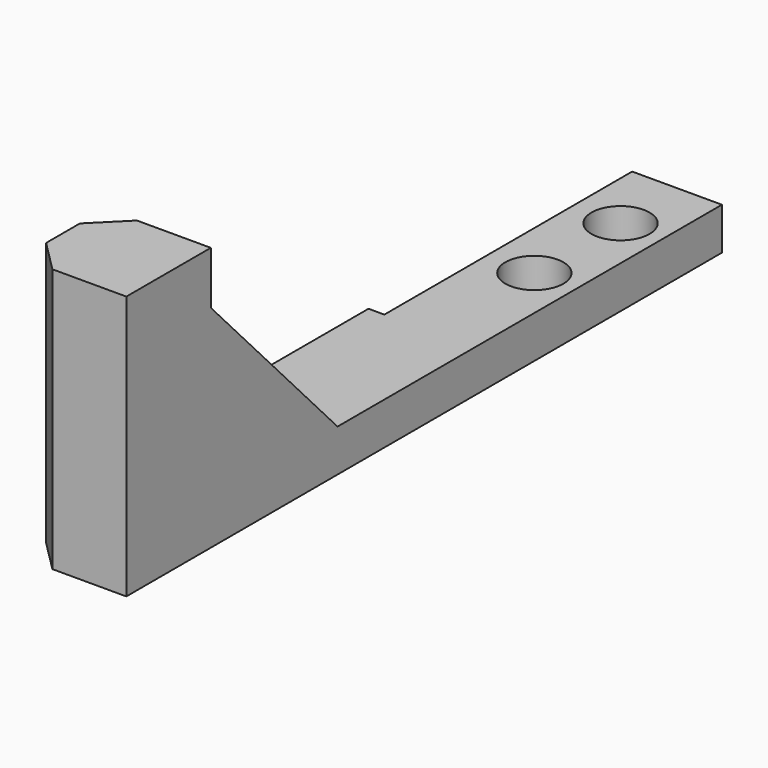
from build123d import *

# Parameters (mm, degrees)
F0_W     = 60.5
F0_H     = 4
F1_DEPTH = 10
F2_R     = 2.75
F3_DEPTH = 31.7
F4_SIZE  = 3
F5_W     = 29.333754
F5_H     = 4
F6_DEPTH = 1.5
F8_DEPTH = 5


with BuildPart() as f1:
    # F0 (on Right) → F1 (new body)
    with BuildSketch(Plane.YZ):
        Polygon((0, 25), (0, 0), (10, 0), (10, 4), (10, 25), align=None)
        with Locations((40.25, 2)):
            Rectangle(F0_W, F0_H)
    extrude(amount=F1_DEPTH)

    # F2 (on face) → F3 (cut)
    with BuildSketch(Plane.XY.offset(4)):
        with Locations((6, 53.3)):
            Circle(F2_R)
        with Locations((6, 63.5)):
            Circle(F2_R)
    extrude(amount=-F3_DEPTH, mode=Mode.SUBTRACT)

    # F4
    f4_edges = [f1.edges().sort_by_distance(p)[0] for p in [
        (0, 0, 12.5),
        (0, 10, 14.5),
    ]]
    chamfer(f4_edges, length=F4_SIZE)

    # F5 (on face) → F6 (cut)
    with BuildSketch(Plane(origin=(0, 0, 0), x_dir=(0, -1, 0), z_dir=(-1, 0, 0))):
        with Locations((-55.833123, 2)):
            Rectangle(F5_W, F5_H)
    extrude(amount=-F6_DEPTH, mode=Mode.SUBTRACT)

    # F7 (on face) → F8 (join)
    with BuildSketch(Plane.YZ.offset(10)):
        Polygon((25, 4), (10, 20), (10, 4), align=None)
    extrude(amount=-F8_DEPTH)


solid = f1.part
